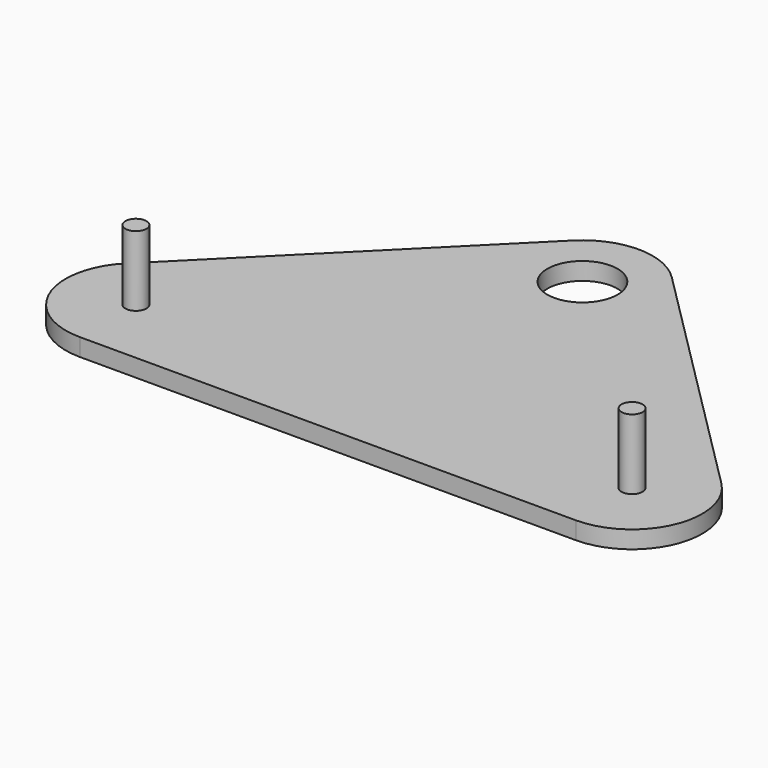
from build123d import *

# Parameters (mm, degrees)
F2_DEPTH = 6.35
F3_R     = 3.81
F4_DEPTH = 25.4
F5_D     = 25.4


with BuildPart() as f2:
    # F1 (on Top) → F2 (new body)
    with BuildSketch(Plane.XY):
        with BuildLine():
            ThreePointArc((89.802561, -115.202561), (113.269101, -99.52272), (107.763073, -71.842049))
            Line((107.763073, -71.842049), (17.960512, 17.960512))
            ThreePointArc((17.960512, 17.960512), (0, 25.4), (-17.960512, 17.960512))
            Line((-17.960512, 17.960512), (-107.763073, -71.842049))
            ThreePointArc((-107.763073, -71.842049), (-113.269101, -99.52272), (-89.802561, -115.202561))
            Line((-89.802561, -115.202561), (89.802561, -115.202561))
        make_face()
    extrude(amount=F2_DEPTH)

    # F3 (on face) → F4 (join)
    with BuildSketch(Plane.XY.offset(6.35)):
        with Locations((89.802561, -89.802561)):
            Circle(F3_R)
        with Locations((-89.802561, -89.802561)):
            Circle(F3_R)
    extrude(amount=F4_DEPTH)

    # F5 (through all)
    with Locations(Plane(origin=(0, 0, 0), x_dir=(1, 0, 0), z_dir=(0, 0, -1))):
        with Locations((0, 0)):
            Hole(F5_D / 2)


solid = f2.part
